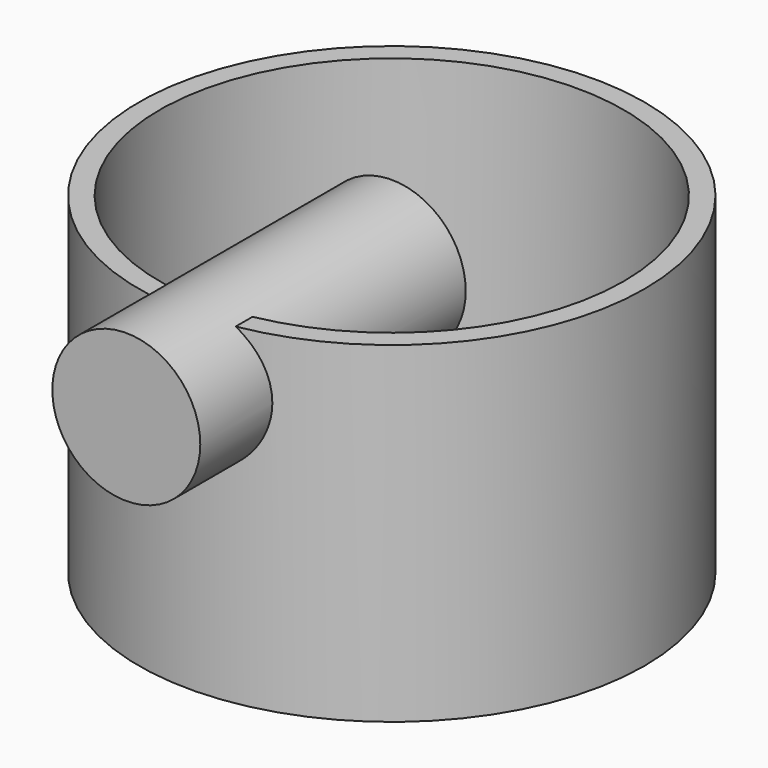
from build123d import *

# Parameters (mm, degrees)
F0_R     = 38.707886
F0_R_2   = 35.532886
F1_DEPTH = 50.8
F2_R     = 11.325646
F3_DEPTH = 50.8


with BuildPart() as f1:
    # F0 (on Top) → F1 (new body)
    with BuildSketch(Plane.XY):
        Circle(F0_R)
        Circle(F0_R_2, mode=Mode.SUBTRACT)
    extrude(amount=F1_DEPTH)

    # F2 (on Front) → F3 (join)
    with BuildSketch(Plane.XZ):
        with Locations((0, 41.60459)):
            Circle(F2_R)
    extrude(amount=F3_DEPTH)


solid = f1.part
